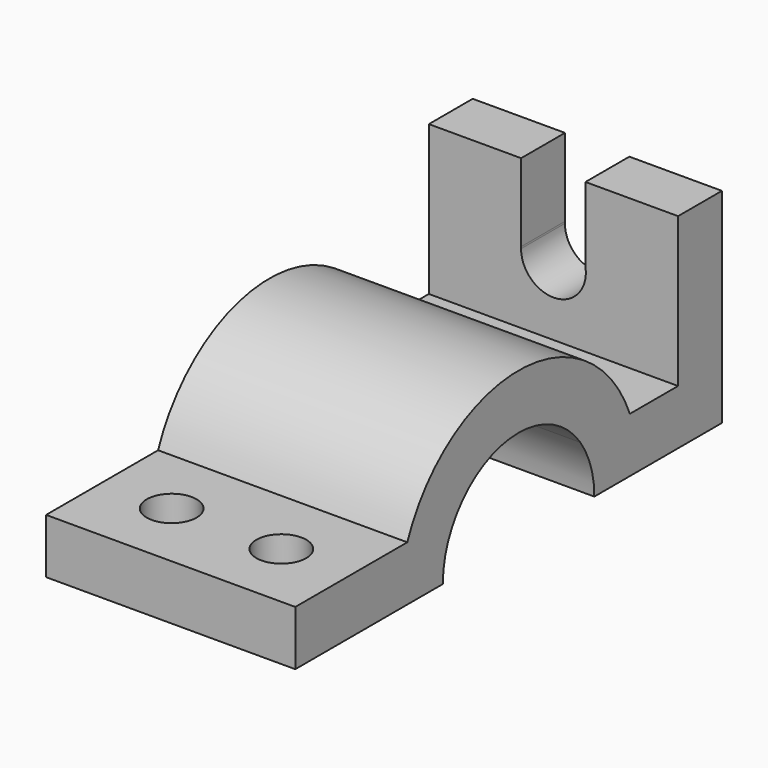
from build123d import *

# Parameters (mm, degrees)
F0_W     = 11
F0_H     = 30
F1_DEPTH = 25
F4_DEPTH = 11
F5_R     = 5
F6_DEPTH = 11


with BuildPart() as f1:
    # F0 (on Right) → F1 (new body)
    with BuildSketch(Plane.YZ):
        with Locations((45.5, 26)):
            Rectangle(F0_W, F0_H)
        with BuildLine():
            ThreePointArc((27.910571, 11), (29.473014, 5.598342), (30, 0))
            Line((30, 0), (51, 0))
            Line((51, 0), (51, 11))
            Line((51, 11), (40, 11))
            Line((40, 11), (27.910571, 11))
        make_face()
        with BuildLine():
            ThreePointArc((-15.491933, 11), (0, 19), (15.491933, 11))
            Line((15.491933, 11), (27.910571, 11))
            ThreePointArc((27.910571, 11), (0, 30), (-27.910571, 11))
            Line((-27.910571, 11), (-15.491933, 11))
        make_face()
        with BuildLine():
            Line((-30, 0), (-19, 0))
            ThreePointArc((-19, 0), (-18.10175, 5.772922), (-15.491933, 11))
            Line((-15.491933, 11), (-27.910571, 11))
            ThreePointArc((-27.910571, 11), (-29.473014, 5.598342), (-30, 0))
        make_face()
        with BuildLine():
            ThreePointArc((15.491933, 11), (18.10175, 5.772922), (19, 0))
            Line((19, 0), (30, 0))
            ThreePointArc((30, 0), (29.473014, 5.598342), (27.910571, 11))
            Line((27.910571, 11), (15.491933, 11))
        make_face()
        with BuildLine():
            Line((-56, 0), (-30, 0))
            ThreePointArc((-30, 0), (-29.473014, 5.598342), (-27.910571, 11))
            Line((-27.910571, 11), (-56, 11))
            Line((-56, 11), (-56, 0))
        make_face()
    extrude(amount=F1_DEPTH)

    # F2: F1 across face


with BuildPart() as f1_1:
    add(f1.part)
    add(f1.part.mirror(Plane(origin=(0, 7.065058, 14.616271), x_dir=(0, 1, 0), z_dir=(-1, 0, 0))))

    # F3 (on face) → F4 (cut)
    with BuildSketch(Plane(origin=(0, 51, 0), x_dir=(-1, 0, 0), z_dir=(0, 1, 0))):
        with BuildLine():
            ThreePointArc((-6.42497, 25.984765), (-0.49381, 18.518785), (6.5, 25))
            ThreePointArc((6.5, 25), (6.497197, 25.190868), (6.488791, 25.381571))
            ThreePointArc((6.488791, 25.381571), (0.303281, 31.492921), (-6.42497, 25.984765))
        make_face()
        with BuildLine():
            ThreePointArc((-6.42497, 25.984765), (0.303281, 31.492921), (6.488791, 25.381571))
            Line((6.488791, 25.381571), (6.488791, 41))
            Line((6.488791, 41), (-6.42497, 41))
            Line((-6.42497, 41), (-6.42497, 25.984765))
        make_face()
    extrude(amount=-F4_DEPTH, mode=Mode.SUBTRACT)

    # F5 (on face) → F6 (cut)
    with BuildSketch(Plane(origin=(0, 0, 0), x_dir=(1, 0, 0), z_dir=(0, 0, -1))):
        with Locations((-11, 42)):
            Circle(F5_R)
        with Locations((11, 42)):
            Circle(F5_R)
    extrude(amount=-F6_DEPTH, mode=Mode.SUBTRACT)


solid = f1_1.part
